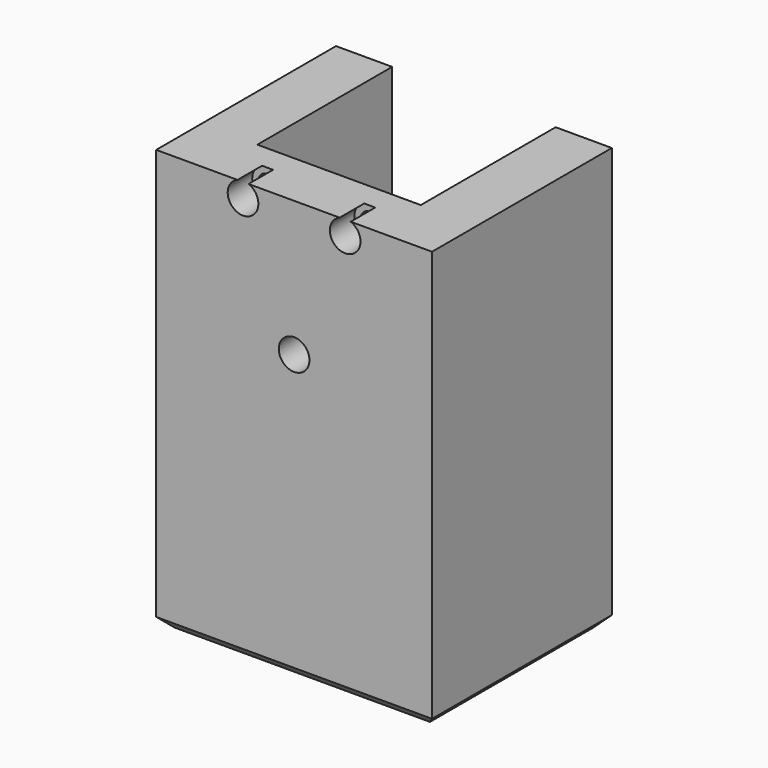
from build123d import *

# Parameters (mm, degrees)
SKETCH_W            = 54
SKETCH_H            = 44
PAD_DEPTH           = 82.5
SKETCH001_W         = 32
SKETCH001_H         = 44
POCKET_DEPTH        = 76.5
SKETCH002_R         = 1.6
HOLE_DEPTH          = 50
HOLE001_DEPTH       = 25
HOLE001_TIPS_R      = 1.6
SKETCH003_R         = 1
HOLE002_DEPTH       = 12
HOLE003_D           = 3.5
HOLE003_DEPTH       = 25
HOLE003_CBORE_D     = 6
HOLE003_CBORE_DEPTH = 6
HOLE003_TIPS_R      = 1.75
CHAMFER_SIZE        = 2


with BuildPart() as part:
    # Sketch → Pad (new body)
    with BuildSketch(Plane.XY):
        Rectangle(SKETCH_W, SKETCH_H)
    extrude(amount=PAD_DEPTH)

    # Sketch001 (on Face6 of Pad) → Pocket (cut)
    with BuildSketch(Plane.XY.offset(82.5)):
        with Locations((0, 11)):
            Rectangle(SKETCH001_W, SKETCH001_H)
    extrude(amount=-POCKET_DEPTH, mode=Mode.SUBTRACT)

    # Sketch002 → Hole (cut)
    with BuildSketch(Plane.YZ):
        with Locations((0, 41)):
            Circle(SKETCH002_R)
        with Locations((13.75, 41)):
            Circle(SKETCH002_R)
        with Locations((0, 54.75)):
            Circle(SKETCH002_R)
        with Locations((0, 27.25)):
            Circle(SKETCH002_R)
        with Locations((-13.75, 41)):
            Circle(SKETCH002_R)
    extrude(amount=-HOLE_DEPTH, mode=Mode.SUBTRACT)

    # Sketch002 → Hole001 (cut)
    with BuildSketch(Plane.YZ):
        with Locations((0, 41)):
            Circle(SKETCH002_R)
        with Locations((13.75, 41)):
            Circle(SKETCH002_R)
        with Locations((0, 54.75)):
            Circle(SKETCH002_R)
        with Locations((0, 27.25)):
            Circle(SKETCH002_R)
        with Locations((-13.75, 41)):
            Circle(SKETCH002_R)
    extrude(amount=HOLE001_DEPTH, mode=Mode.SUBTRACT)

    # Hole001 tips → Hole001 tip 1 section 0
    with BuildSketch(Plane.YZ.offset(25), mode=Mode.PRIVATE) as hole001_tip_1_s0:
        with Locations((0, 41)):
            Circle(HOLE001_TIPS_R)
    loft([hole001_tip_1_s0.sketch, Vertex(25.961377, 0, 41)], mode=Mode.SUBTRACT)

    # Hole001 tips → Hole001 tip 2 section 0
    with BuildSketch(Plane.YZ.offset(25), mode=Mode.PRIVATE) as hole001_tip_2_s0:
        with Locations((13.75, 41)):
            Circle(HOLE001_TIPS_R)
    loft([hole001_tip_2_s0.sketch, Vertex(25.961377, 13.75, 41)], mode=Mode.SUBTRACT)

    # Hole001 tips → Hole001 tip 3 section 0
    with BuildSketch(Plane.YZ.offset(25), mode=Mode.PRIVATE) as hole001_tip_3_s0:
        with Locations((0, 54.75)):
            Circle(HOLE001_TIPS_R)
    loft([hole001_tip_3_s0.sketch, Vertex(25.961377, 0, 54.75)], mode=Mode.SUBTRACT)

    # Hole001 tips → Hole001 tip 4 section 0
    with BuildSketch(Plane.YZ.offset(25), mode=Mode.PRIVATE) as hole001_tip_4_s0:
        with Locations((0, 27.25)):
            Circle(HOLE001_TIPS_R)
    loft([hole001_tip_4_s0.sketch, Vertex(25.961377, 0, 27.25)], mode=Mode.SUBTRACT)

    # Hole001 tips → Hole001 tip 5 section 0
    with BuildSketch(Plane.YZ.offset(25), mode=Mode.PRIVATE) as hole001_tip_5_s0:
        with Locations((-13.75, 41)):
            Circle(HOLE001_TIPS_R)
    loft([hole001_tip_5_s0.sketch, Vertex(25.961377, -13.75, 41)], mode=Mode.SUBTRACT)

    # Sketch003 → Hole002 (cut)
    with BuildSketch(Plane.XY):
        with Locations((-13, 18.5)):
            Circle(SKETCH003_R)
        with Locations((13, 18.5)):
            Circle(SKETCH003_R)
        with Locations((13, -18.5)):
            Circle(SKETCH003_R)
        with Locations((-13, -18.5)):
            Circle(SKETCH003_R)
    extrude(amount=-HOLE002_DEPTH, mode=Mode.SUBTRACT)

    # Hole003
    with Locations(Plane.XZ.offset(22)):
        with Locations((0, 56), (10, 79.7), (-10, 79.7)):
            CounterBoreHole(HOLE003_D / 2, HOLE003_CBORE_D / 2, HOLE003_CBORE_DEPTH, depth=HOLE003_DEPTH)

    # Hole003 tips → Hole003 tip 1 section 0
    with BuildSketch(Plane.XZ.offset(-3), mode=Mode.PRIVATE) as hole003_tip_1_s0:
        with Locations((0, 56)):
            Circle(HOLE003_TIPS_R)
    loft([hole003_tip_1_s0.sketch, Vertex(0, 4.051506, 56)], mode=Mode.SUBTRACT)

    # Hole003 tips → Hole003 tip 2 section 0
    with BuildSketch(Plane.XZ.offset(-3), mode=Mode.PRIVATE) as hole003_tip_2_s0:
        with Locations((10, 79.7)):
            Circle(HOLE003_TIPS_R)
    loft([hole003_tip_2_s0.sketch, Vertex(10, 4.051506, 79.7)], mode=Mode.SUBTRACT)

    # Hole003 tips → Hole003 tip 3 section 0
    with BuildSketch(Plane.XZ.offset(-3), mode=Mode.PRIVATE) as hole003_tip_3_s0:
        with Locations((-10, 79.7)):
            Circle(HOLE003_TIPS_R)
    loft([hole003_tip_3_s0.sketch, Vertex(-10, 4.051506, 79.7)], mode=Mode.SUBTRACT)

    # Chamfer
    chamfer_edges = [part.edges().sort_by_distance(p)[0] for p in [
        (-27, 0, 0),
        (0, 22, 0),
        (27, 0, 0),
        (0, -22, 0),
    ]]
    chamfer(chamfer_edges, length=CHAMFER_SIZE)


solid = part.part
